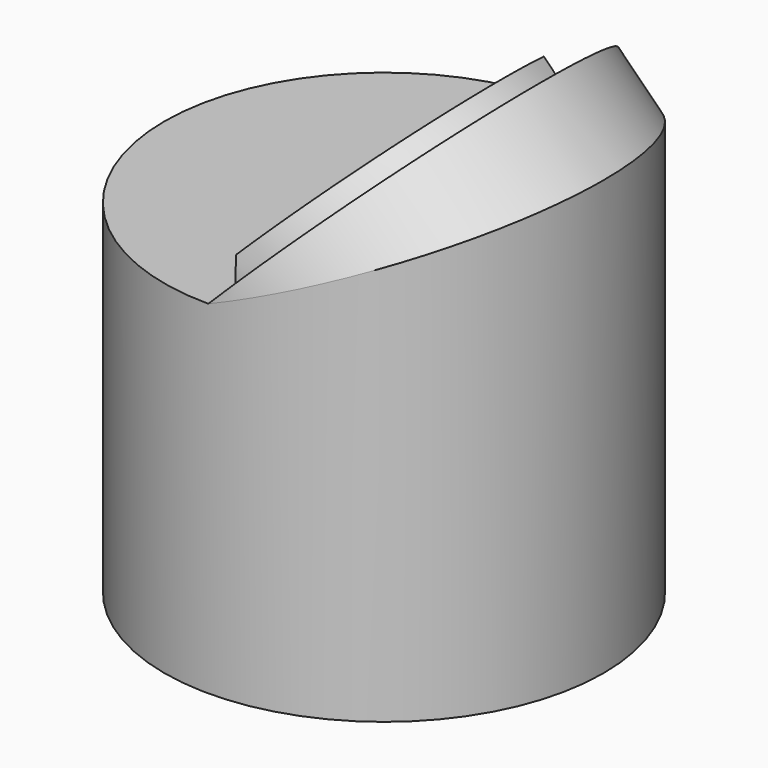
from build123d import *

# Parameters (mm, degrees)
F2_DEPTH  = 16
F0_R      = 16
F3_DEPTH  = 25
F4_DEPTH  = 25
F6_DEPTH  = 1.5
F8_DEPTH  = 10
F10_DEPTH = 25
F11_R     = 0.75
F12_DEPTH = 8
F14_DEPTH = 25


with BuildPart() as f2:
    # F1 (on Front) → F2 (new body, symmetric)
    with BuildSketch(Plane.XZ):
        Polygon((16, 16), (0, 0), (16, 0), align=None)
    extrude(amount=F2_DEPTH, both=True)

    # F0 (on Top) → F3 (intersect)
    with BuildSketch(Plane.XY):
        Circle(F0_R)
    extrude(amount=F3_DEPTH, mode=Mode.INTERSECT)

    # F0 (on Top) → F4 (join)
    with BuildSketch(Plane.XY):
        Circle(F0_R)
    extrude(amount=-F4_DEPTH)

    # F5 (on face) → F6 (join)
    with BuildSketch(Plane(origin=(0, 0, 0), x_dir=(0, -1, 0), z_dir=(-0.707107, 0, 0.707107))):
        with BuildLine():
            Line((-0.184881, 0.507365), (0, 0))
            Line((0, 0), (0.54, 0))
            Line((0.54, 0), (13.54, 0))
            ThreePointArc((13.54, 0), (7.76415, 11.092771), (-4.635713, 12.721704))
            Line((-4.635713, 12.721704), (-0.184881, 0.507365))
        make_face()
    extrude(amount=F6_DEPTH)

    # F7 (on face) → F8 (join)
    with BuildSketch(Plane(origin=(0, 0, 0), x_dir=(0, -1, 0), z_dir=(-0.707107, 0, 0.707107))):
        Polygon((0, 0), (-0.184881, 0.507365), (-1.577233, 0), align=None)
    extrude(amount=F8_DEPTH)

    # F9 (on face) → F10 (cut)
    with BuildSketch(Plane.XY):
        with BuildLine():
            ThreePointArc((0, 16), (-16, 0), (0, -16))
            Line((0, -16), (0, 16))
        make_face()
    extrude(amount=F10_DEPTH, mode=Mode.SUBTRACT)

    # F11 (on face) → F12 (cut)
    with BuildSketch(Plane.XY):
        with Locations((-0.75, -0.54)):
            Circle(F11_R)
    extrude(amount=-F12_DEPTH, mode=Mode.SUBTRACT)

    # F13 (on face) → F14 (cut)
    with BuildSketch(Plane(origin=(0, 0, 0), x_dir=(0, -1, 0), z_dir=(-0.707107, 0, 0.707107))):
        with BuildLine():
            ThreePointArc((-16, 0), (0, 16), (16, 0))
            add(Edge.make_bspline(
                [(16, 0), (16, 22.627417), (0, 22.627417)],
                knots=[1.570796, 1.570796, 1.570796, 3.141593, 3.141593, 3.141593], degree=2, weights=[1, 0.707107, 1]))
            add(Edge.make_bspline(
                [(0, 22.627417), (-16, 22.627417), (-16, 0)],
                knots=[3.141593, 3.141593, 3.141593, 4.712389, 4.712389, 4.712389], degree=2, weights=[1, 0.707107, 1]))
        make_face()
    extrude(amount=-F14_DEPTH, mode=Mode.SUBTRACT)


solid = f2.part
